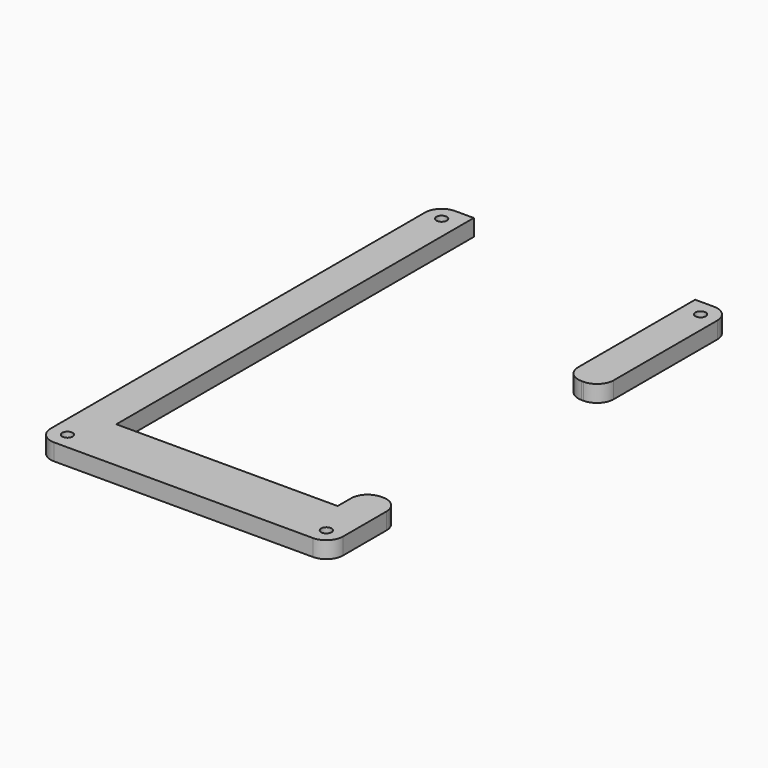
from build123d import *

# Parameters (mm, degrees)
F0_W     = 88.9
F0_H     = 152.4
F1_DEPTH = 5.08
F3_DEPTH = 25.4
F4_R     = 1.5875
F5_DEPTH = 25.4
F6_R     = 5.08


with BuildPart() as f1:
    # F0 (on Top) → F1 (new body)
    with BuildSketch(Plane.XY):
        with Locations((44.45, -76.2)):
            Rectangle(F0_W, F0_H)
    extrude(amount=F1_DEPTH)

    # F2 (on face) → F3 (cut)
    with BuildSketch(Plane.XY.offset(5.08)):
        Polygon((78.105, 0), (10.795, 0), (10.795, -135.89), (78.105, -135.89), (78.105, -125.73), (88.9, -125.73), (88.9, -49.53), (78.105, -49.53), align=None)
    extrude(amount=-F3_DEPTH, mode=Mode.SUBTRACT)

    # F4 (on face) → F5 (cut)
    with BuildSketch(Plane.XY.offset(5.08)):
        with Locations((5.08, -147.32)):
            Circle(F4_R)
        with Locations((83.82, -147.32)):
            Circle(F4_R)
        with Locations((83.82, -5.08)):
            Circle(F4_R)
        with Locations((5.08, -5.08)):
            Circle(F4_R)
    extrude(amount=-F5_DEPTH, mode=Mode.SUBTRACT)

    # F6
    f6_edges = [f1.edges().sort_by_distance(p)[0] for p in [
        (0, -152.4, 2.54),
        (88.9, -152.4, 2.54),
        (0, 0, 2.54),
        (88.9, 0, 2.54),
        (78.105, -49.53, 2.54),
        (88.9, -49.53, 2.54),
        (88.9, -125.73, 2.54),
        (78.105, -125.73, 2.54),
    ]]
    fillet(f6_edges, radius=F6_R)


solid = f1.part
